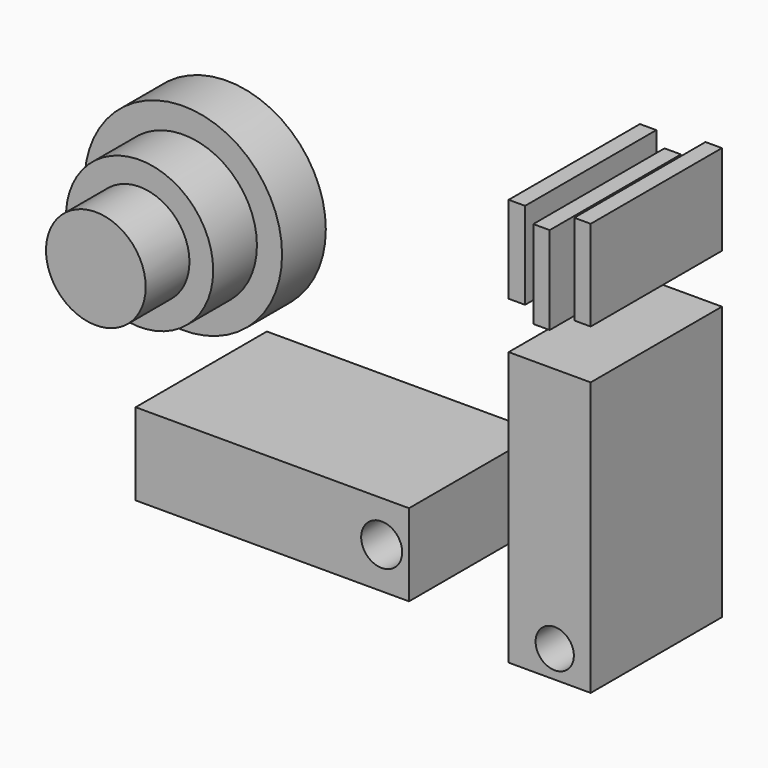
from build123d import *

# Parameters (mm, degrees)
F0_R     = 9.525
F1_DEPTH = 25.4
F0_W     = 38.1
F0_H     = 127
F0_R_2   = 8.89
F2_DEPTH = 25.4
F3_DEPTH = 50.8
F0_W_2   = 7.62
F0_H_2   = 40.47998
F0_H_3   = 40.865489
F0_H_4   = 42.022072
F4_DEPTH = 25.4
F0_R_3   = 23.161046
F5_DEPTH = 76.2
F0_R_4   = 34.189632
F6_DEPTH = 50.8
F0_R_5   = 45.873085
F7_DEPTH = 25.4


with BuildPart() as f1:
    # F0 (on Front) → F1 (new body)
    with BuildSketch(Plane.XZ):
        Polygon((59.587646, 0), (-67.412354, 0), (-67.412354, -38.1), (40.537646, -38.1), (59.587646, -38.1), align=None)
        with Locations((46.887646, -19.05)):
            Circle(F0_R, mode=Mode.SUBTRACT)
    extrude(amount=F1_DEPTH)


with BuildPart() as f2:
    # F0 (on Front) → F2 (new body)
    with BuildSketch(Plane.XZ):
        with Locations((124.932525, 15.396306)):
            Rectangle(F0_W, F0_H)
        with Locations((127.271771, -35.403694)):
            Circle(F0_R_2, mode=Mode.SUBTRACT)
    extrude(amount=F2_DEPTH)

    # F0 (on Front) → F3 (join)
    with BuildSketch(Plane.XZ):
        with Locations((127.271771, -35.403694)):
            Circle(F0_R_2)
    extrude(amount=F3_DEPTH)


with BuildPart() as f4:
    # F0 (on Front) → F4 (new body)
    with BuildSketch(Plane.XZ):
        with Locations((109.692525, 120.948378)):
            Rectangle(F0_W_2, F0_H_2)
        with Locations((121.122525, 114.542018)):
            Rectangle(F0_W_2, F0_H_3)
        with Locations((140.172525, 122.74031)):
            Rectangle(F0_W_2, F0_H_4)
    extrude(amount=F4_DEPTH)


with BuildPart() as f5:
    # F0 (on Front) → F5 (new body)
    with BuildSketch(Plane.XZ):
        with Locations((109.692525, 120.948378)):
            Rectangle(F0_W_2, F0_H_2)
        with Locations((140.172525, 122.74031)):
            Rectangle(F0_W_2, F0_H_4)
        with Locations((121.122525, 114.542018)):
            Rectangle(F0_W_2, F0_H_3)
        Polygon((59.587646, 0), (-67.412354, 0), (-67.412354, -38.1), (40.537646, -38.1), (59.587646, -38.1), align=None)
        with Locations((46.887646, -19.05)):
            Circle(F0_R, mode=Mode.SUBTRACT)
        with Locations((124.932525, 15.396306)):
            Rectangle(F0_W, F0_H)
        with Locations((127.271771, -35.403694)):
            Circle(F0_R_2, mode=Mode.SUBTRACT)
        with Locations((-85.892066, 50.650265)):
            Circle(F0_R_3)
    extrude(amount=F5_DEPTH)

    # F0 (on Front) → F6 (join)
    with BuildSketch(Plane.XZ):
        with Locations((-85.892066, 50.650265)):
            Circle(F0_R_4)
        with Locations((-85.892066, 50.650265)):
            Circle(F0_R_3, mode=Mode.SUBTRACT)
    extrude(amount=F6_DEPTH)

    # F0 (on Front) → F7 (join)
    with BuildSketch(Plane.XZ):
        with Locations((-85.892066, 50.650265)):
            Circle(F0_R_5)
        with Locations((-85.892066, 50.650265)):
            Circle(F0_R_4, mode=Mode.SUBTRACT)
    extrude(amount=F7_DEPTH)


solid = Compound([f1.part, f2.part, f4.part, f5.part])
